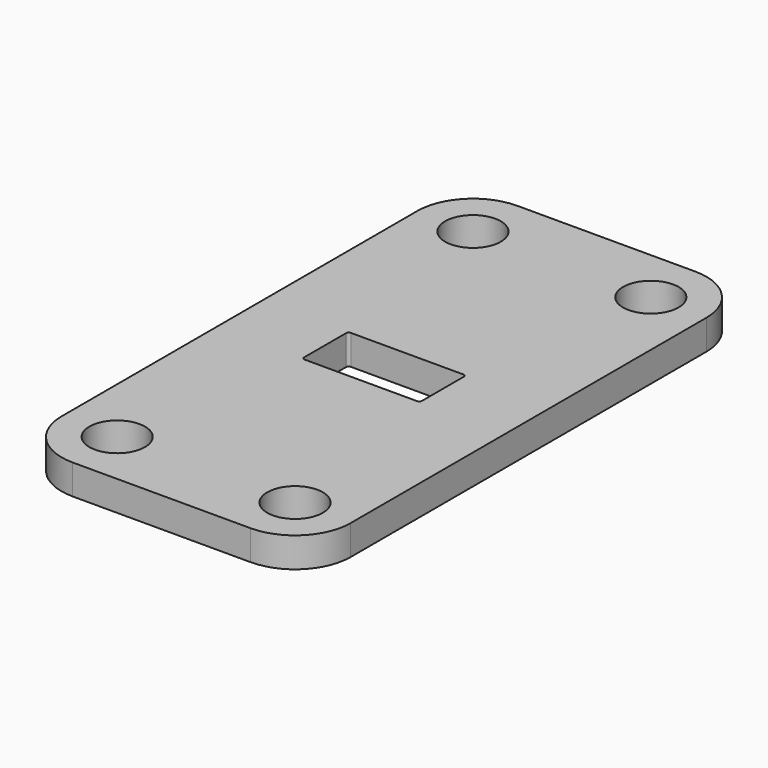
from build123d import *

# Parameters (mm, degrees)
F0_R     = 3.175
F1_DEPTH = 1.70815


with BuildPart() as f1:
    # F0 (on Top) → F1 (new body, symmetric)
    with BuildSketch(Plane.XY):
        with BuildLine():
            ThreePointArc((16.51, 25.4), (14.650128, 29.890128), (10.16, 31.75))
            Line((10.16, 31.75), (-10.16, 31.75))
            ThreePointArc((-10.16, 31.75), (-14.650128, 29.890128), (-16.51, 25.4))
            Line((-16.51, 25.4), (-16.51, -25.4))
            ThreePointArc((-16.51, -25.4), (-14.650128, -29.890128), (-10.16, -31.75))
            Line((-10.16, -31.75), (10.16, -31.75))
            ThreePointArc((10.16, -31.75), (14.650128, -29.890128), (16.51, -25.4))
            Line((16.51, -25.4), (16.51, 25.4))
        make_face()
        with Locations((-10.16, -25.4)):
            Circle(F0_R, mode=Mode.SUBTRACT)
        with Locations((10.16, -25.4)):
            Circle(F0_R, mode=Mode.SUBTRACT)
        with Locations((-10.16, 25.4)):
            Circle(F0_R, mode=Mode.SUBTRACT)
        with BuildLine():
            Line((-6.4135, 3.302), (6.4135, 3.302))
            ThreePointArc((6.4135, 3.302), (6.638006, 3.209006), (6.731, 2.9845))
            Line((6.731, 2.9845), (6.731, -2.9845))
            ThreePointArc((6.731, -2.9845), (6.638006, -3.209006), (6.4135, -3.302))
            Line((6.4135, -3.302), (-6.4135, -3.302))
            ThreePointArc((-6.4135, -3.302), (-6.638006, -3.209006), (-6.731, -2.9845))
            Line((-6.731, -2.9845), (-6.731, 2.9845))
            ThreePointArc((-6.731, 2.9845), (-6.638006, 3.209006), (-6.4135, 3.302))
        make_face(mode=Mode.SUBTRACT)
        with Locations((10.16, 25.4)):
            Circle(F0_R, mode=Mode.SUBTRACT)
    extrude(amount=F1_DEPTH, both=True)


solid = f1.part
